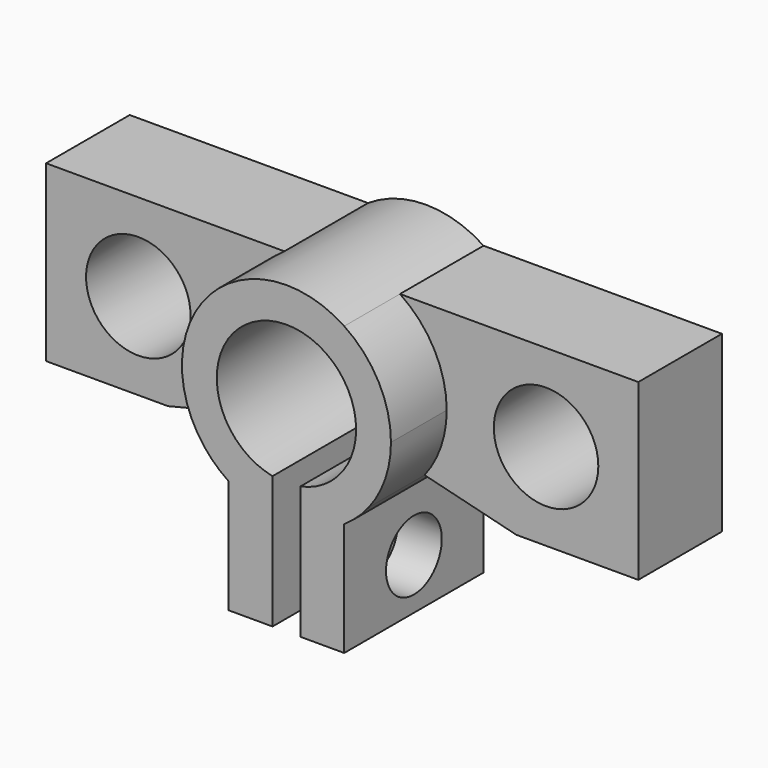
from build123d import *

# Parameters (mm, degrees)
F1_DEPTH = 50
F0_R     = 15
F2_DEPTH = 30
F3_R     = 10
F4_DEPTH = 42.2


with BuildPart() as f1:
    # F0 (on Front) → F1 (new body)
    with BuildSketch(Plane.XZ):
        with BuildLine():
            ThreePointArc((-4, -19.5959179423), (-12.6491106407, 15.4919333848), (20, 0))
            ThreePointArc((20, 0), (15.4919333848, -12.6491106407), (4, -19.5959179423))
            Line((4, -19.5959179423), (4, -25))
            Line((4, -25), (16.5831239518, -25))
            ThreePointArc((16.5831239518, -25), (20.3783390562, -22.0164324383), (23.6458608502, -18.4627534418))
            ThreePointArc((23.6458608502, -18.4627534418), (28.36702157, -9.7627909558), (30, 0))
            ThreePointArc((30, 0), (26.4338203685, 14.1863716546), (16.5831239518, 25))
            Line((16.5831239518, 25), (-16.5831239518, 25))
            ThreePointArc((-16.5831239518, 25), (-29.6115777819, 4.8119082768), (-23.6458608502, -18.4627534418))
            ThreePointArc((-23.6458608502, -18.4627534418), (-20.3783390562, -22.0164324383), (-16.5831239518, -25))
            Line((-16.5831239518, -25), (-4, -25))
            Line((-4, -25), (-4, -19.5959179423))
        make_face()
        with BuildLine():
            ThreePointArc((16.5831239518, 25), (0, 30), (-16.5831239518, 25))
            Line((-16.5831239518, 25), (16.5831239518, 25))
        make_face()
        with BuildLine():
            Line((16.5831239518, -57.5959179423), (16.5831239518, -25))
            ThreePointArc((16.5831239518, -25), (10.5600439971, -28.079983454), (4, -29.7321374946))
            Line((4, -29.7321374946), (4, -57.5959179423))
            Line((4, -57.5959179423), (16.5831239518, -57.5959179423))
        make_face()
        with BuildLine():
            Line((16.5831239518, -25), (4, -25))
            Line((4, -25), (4, -29.7321374946))
            ThreePointArc((4, -29.7321374946), (10.5600439971, -28.079983454), (16.5831239518, -25))
        make_face()
        with BuildLine():
            ThreePointArc((-4, -29.7321374946), (-10.5600439971, -28.079983454), (-16.5831239518, -25))
            Line((-16.5831239518, -25), (-16.5831239518, -57.5959179423))
            Line((-16.5831239518, -57.5959179423), (-4, -57.5959179423))
            Line((-4, -57.5959179423), (-4, -29.7321374946))
        make_face()
        with BuildLine():
            Line((-4, -29.7321374946), (-4, -25))
            Line((-4, -25), (-16.5831239518, -25))
            ThreePointArc((-16.5831239518, -25), (-10.5600439971, -28.079983454), (-4, -29.7321374946))
        make_face()
    extrude(amount=F1_DEPTH)

    # F0 (on Front) → F2 (join)
    with BuildSketch(Plane.XZ):
        with BuildLine():
            Line((-50, -25), (-23.6458608502, -18.4627534418))
            ThreePointArc((-23.6458608502, -18.4627534418), (-29.6115777819, 4.8119082768), (-16.5831239518, 25))
            Line((-16.5831239518, 25), (-85, 25))
            Line((-85, 25), (-85, -25))
            Line((-85, -25), (-50, -25))
        make_face()
        with Locations((-58.52034688, 0)):
            Circle(F0_R, mode=Mode.SUBTRACT)
        with BuildLine():
            ThreePointArc((30, 0), (28.36702157, -9.7627909558), (23.6458608502, -18.4627534418))
            Line((23.6458608502, -18.4627534418), (50, -25))
            Line((50, -25), (85, -25))
            Line((85, -25), (85, 25))
            Line((85, 25), (16.5831239518, 25))
            ThreePointArc((16.5831239518, 25), (26.4338203685, 14.1863716546), (30, 0))
        make_face()
        with Locations((58.52034688, 0)):
            Circle(F0_R, mode=Mode.SUBTRACT)
    extrude(amount=F2_DEPTH)

    # F3 (on face) → F4 (cut)
    with BuildSketch(Plane(origin=(-16.5831239518, 0, 0), x_dir=(0, -1, 0), z_dir=(-1, 0, 0))):
        with Locations((25, -43)):
            Circle(F3_R)
    extrude(amount=-F4_DEPTH, mode=Mode.SUBTRACT)


solid = f1.part
